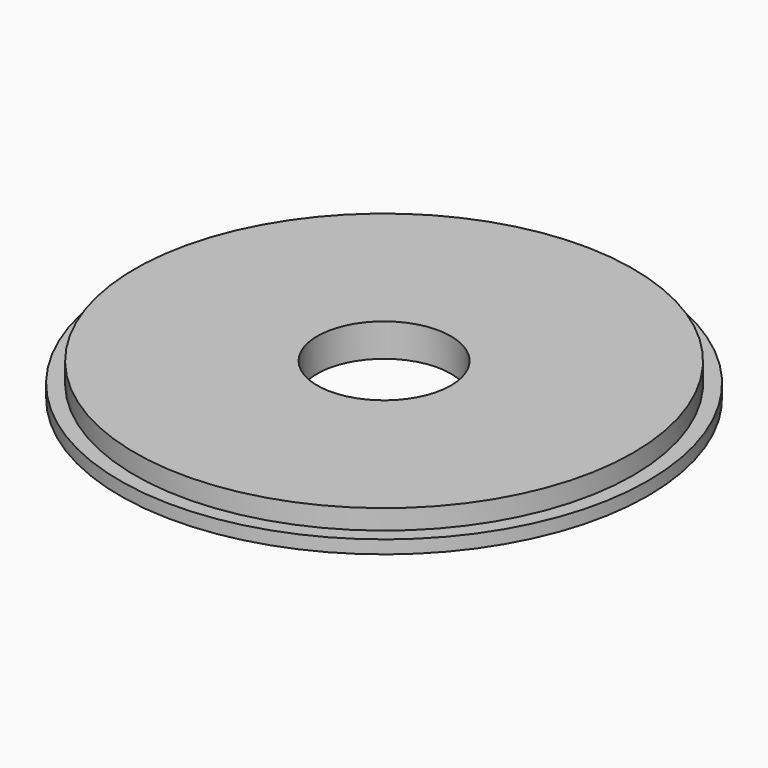
from build123d import *

# Parameters (mm, degrees)
SKETCH_R     = 16
PAD_DEPTH    = 0.8
SKETCH001_R  = 15.1
PAD001_DEPTH = 1.2
SKETCH002_R  = 4.05
POCKET_DEPTH = 2.001


with BuildPart() as part:
    # Sketch → Pad (new body)
    with BuildSketch(Plane.XY):
        Circle(SKETCH_R)
    extrude(amount=PAD_DEPTH)

    # Sketch001 → Pad001 (new body)
    with BuildSketch(Plane.XY.offset(0.8)):
        Circle(SKETCH001_R)
    extrude(amount=PAD001_DEPTH)

    # Sketch002 → Pocket (cut, through all)
    with BuildSketch(Plane.XY.offset(2)):
        Circle(SKETCH002_R)
    extrude(amount=-POCKET_DEPTH, mode=Mode.SUBTRACT)


solid = part.part
